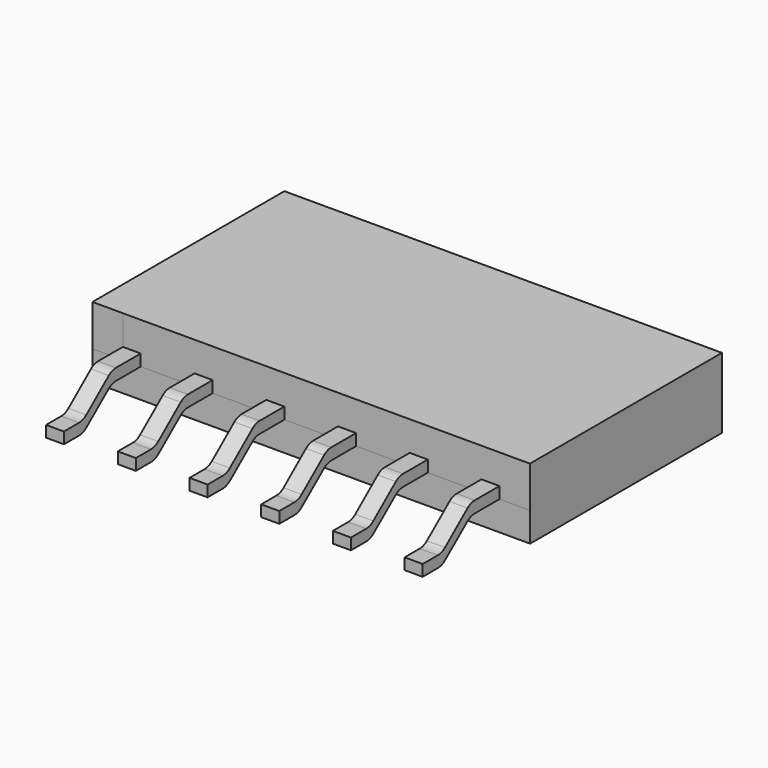
from build123d import *

# Parameters (mm, degrees)
SKETCH003_AS_DRAWN_W                      = 1.6
SKETCH003_AS_DRAWN_H                      = 1.6
EXTRUDE003_DEPTH                          = 7
EXTRUDE003_ONTO_SKETCH003_ROLL_ANGLE      = 90.0000000001
EXTRUDE003_ONTO_SKETCH003_PLACEMENT_ANGLE = 180
SKETCH002_W                               = 1.9
SKETCH002_H                               = 3.4
SKETCH002_W_2                             = 1.908066
SKETCH002_W_3                             = 1.08
SKETCH002_H_2                             = 3.401267
EXTRUDE002_DEPTH                          = 2.5
EXTRUDE001_DEPTH                          = 15.5
SKETCH_W                                  = 15.5
SKETCH_H                                  = 11.9
EXTRUDE_DEPTH                             = 2.5
FILLET_R                                  = 0.5


with BuildPart() as extrude003:
    # Sketch003 as drawn → Extrude003 (new)
    with BuildSketch(Plane.XY):
        with Locations((-1.27, 1.25)):
            Rectangle(SKETCH003_AS_DRAWN_W, SKETCH003_AS_DRAWN_H)
        with Locations((1.27, 1.25)):
            Rectangle(SKETCH003_AS_DRAWN_W, SKETCH003_AS_DRAWN_H)
        with Locations((3.81, 1.25)):
            Rectangle(SKETCH003_AS_DRAWN_W, SKETCH003_AS_DRAWN_H)
        with Locations((6.35, 1.25)):
            Rectangle(SKETCH003_AS_DRAWN_W, SKETCH003_AS_DRAWN_H)
        with Locations((-3.81, 1.25)):
            Rectangle(SKETCH003_AS_DRAWN_W, SKETCH003_AS_DRAWN_H)
        with Locations((-6.35, 1.25)):
            Rectangle(SKETCH003_AS_DRAWN_W, SKETCH003_AS_DRAWN_H)
    extrude(amount=-EXTRUDE003_DEPTH)


with BuildPart() as extrude003_1:
    # Extrude003 onto Sketch003 roll: moved
    add(extrude003.part.rotate(Axis((0, 0, 0), (1, 0, 0)), EXTRUDE003_ONTO_SKETCH003_ROLL_ANGLE))


with BuildPart() as extrude003_2:
    # Extrude003 onto Sketch003 placement: moved
    add(extrude003_1.part.moved(Location((0, 5.95, 0))).rotate(Axis((0, 5.95, 0), (0, 0, 1)), EXTRUDE003_ONTO_SKETCH003_PLACEMENT_ANGLE))


with BuildPart() as extrude002:
    # Sketch002 (on Face17 of Fillet) → Extrude002 (new body)
    with BuildSketch(Plane.XY.offset(2.5)):
        with Locations((-2.54, -4.25)):
            Rectangle(SKETCH002_W, SKETCH002_H)
        with Locations((0, -4.25)):
            Rectangle(SKETCH002_W, SKETCH002_H)
        with Locations((-5.084033, -4.25)):
            Rectangle(SKETCH002_W_2, SKETCH002_H)
        with Locations((5.08, -4.25)):
            Rectangle(SKETCH002_W, SKETCH002_H)
        with Locations((2.54, -4.25)):
            Rectangle(SKETCH002_W, SKETCH002_H)
        with Locations((-7.21, -4.2493665)):
            Rectangle(SKETCH002_W_3, SKETCH002_H_2)
        with Locations((7.21, -4.25)):
            Rectangle(SKETCH002_W_3, SKETCH002_H)
    extrude(amount=-EXTRUDE002_DEPTH)


with BuildPart() as extrude001:
    # Sketch001 (on Face2 of Extrude) → Extrude001 (new body)
    with BuildSketch(Plane.YZ.offset(7.75)):
        Polygon((-2.55, 2.5), (-5.95, 2.5), (-5.95, 0.4), (-5.1, 0.4), (-3.825, 1.45), (-2.55, 1.45), align=None)
        Polygon((-2.542972, 1.040645), (-3.825, 1.040645), (-5.1, 0), (-2.542972, 0), align=None)
    extrude(amount=-EXTRUDE001_DEPTH)


with BuildPart() as cut002:
    # Sketch → Extrude (new body)
    with BuildSketch(Plane.XY):
        Rectangle(SKETCH_W, SKETCH_H)
    extrude(amount=EXTRUDE_DEPTH)

    # Cut: cut Extrude001
    add(extrude001.part, mode=Mode.SUBTRACT)

    # Fillet
    fillet_edges = [cut002.edges().sort_by_distance(p)[0] for p in [
        (0, -5.1, 0),
        (0, -3.825, 1.040645),
        (0, -3.825, 1.45),
        (0, -5.1, 0.4),
    ]]
    fillet(fillet_edges, radius=FILLET_R)

    # Cut001: cut Extrude002
    add(extrude002.part, mode=Mode.SUBTRACT)

    # Cut002: cut Extrude003
    add(extrude003_2.part, mode=Mode.SUBTRACT)


solid = cut002.part
